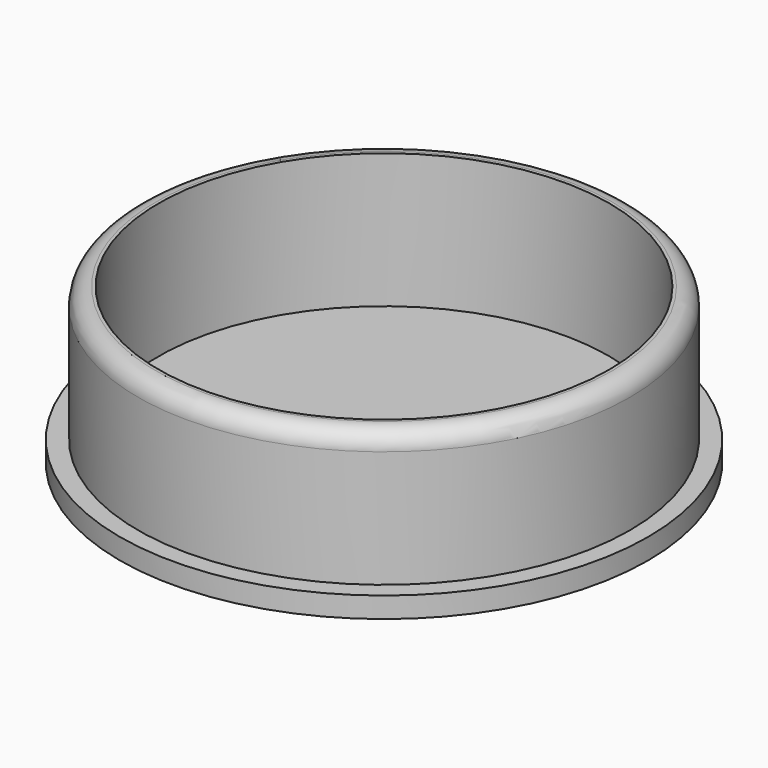
from build123d import *

# Parameters (mm, degrees)
F0_R     = 25.5
F0_R_2   = 23.75
F0_R_3   = 21.75
F1_DEPTH = 2
F2_DEPTH = 15
F3_R     = 1.7


with BuildPart() as f1:
    # F0 (on Top) → F1 (new body)
    with BuildSketch(Plane.XY):
        Circle(F0_R)
        Circle(F0_R_2, mode=Mode.SUBTRACT)
        Circle(F0_R_2)
        Circle(F0_R_3, mode=Mode.SUBTRACT)
        Circle(F0_R_3)
    extrude(amount=F1_DEPTH)

    # F0 (on Top) → F2 (join)
    with BuildSketch(Plane.XY):
        Circle(F0_R_2)
        Circle(F0_R_3, mode=Mode.SUBTRACT)
    extrude(amount=F2_DEPTH)

    # F3
    f3_edges = [f1.edges().sort_by_distance(p)[0] for p in [
        (-23.75, 0, 15),
    ]]
    fillet(f3_edges, radius=F3_R)


solid = f1.part
